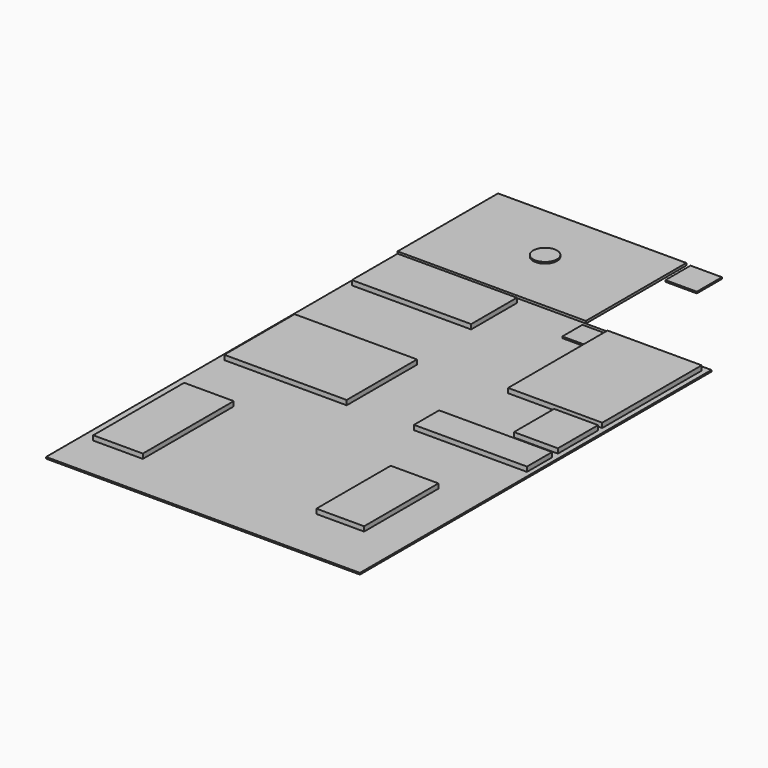
from build123d import *

# Parameters (mm, degrees)
F0_W       = 5000
F0_H       = 7000
F0_W_2     = 790
F0_H_2     = 1810
F0_W_3     = 760
F0_H_3     = 1480
F0_W_4     = 1950
F0_H_4     = 1400
F0_W_5     = 1900
F0_H_5     = 910
F0_W_6     = 1800
F0_H_6     = 500
F0_W_7     = 700
F0_H_7     = 800
F1_DEPTH   = 25
F2_DEPTH   = 100
F3_DEPTH   = 100
F0_W_8     = 400
F0_H_8     = 400
F4_DEPTH   = 50
F5_DEPTH   = 100
F6_DEPTH   = 100
F7_DEPTH   = 100
F8_DEPTH   = 100
F9_DEPTH   = 100
F10_W      = 3000
F10_H      = 2000
F13_DEPTH  = 12.5
F11_W      = 500
F11_H      = 500
F14_DEPTH  = 25
F12_R      = 126.5540122986
F12_W      = 1253.9870738983
F12_H      = 1031.8846702576
F12_W_2    = 497.074842453
F12_H_2    = 817.5168037415
F13_FACE_W = 3000
F13_FACE_H = 2000
F15_DEPTH  = 25
F16_R      = 190.4091259928
F17_DEPTH  = 25


with BuildPart() as f1:
    # F0 (on Top) → F1 (new body)
    with BuildSketch(Plane.XY):
        with Locations((4537.1482372284, 269.8234380165)):
            Rectangle(F0_W, F0_H)
        with Locations((2615.7725048065, -1615.3859186172)):
            Rectangle(F0_W_2, F0_H_2, mode=Mode.SUBTRACT)
        with Locations((6003.7550878525, -1590.1765619835)):
            Rectangle(F0_W_3, F0_H_3, mode=Mode.SUBTRACT)
        with Locations((3114.0183746815, 891.3115263859)):
            Rectangle(F0_W_4, F0_H_4, mode=Mode.SUBTRACT)
        with Locations((3071.3378071785, 3209.5271874348)):
            Rectangle(F0_W_5, F0_H_5, mode=Mode.SUBTRACT)
        with Locations((6061.3521099091, 441.3115263859)):
            Rectangle(F0_W_6, F0_H_6, mode=Mode.SUBTRACT)
        with Locations((6604.7293186188, 1215.8045292774)):
            Rectangle(F0_W_7, F0_H_7, mode=Mode.SUBTRACT)
        Polygon((5054.1623592377, 3679.4947148243), (5454.1623592377, 3679.4947148243), (6954.1623592377, 3679.4947148243), (6954.1623592377, 1699.4947148243), (5454.1623592377, 1699.4947148243), (5454.1623592377, 3279.4947148243), (5054.1623592377, 3279.4947148243), align=None, mode=Mode.SUBTRACT)
    extrude(amount=F1_DEPTH)

    # F0 (on Top) → F2 (join)
    with BuildSketch(Plane.XY):
        with Locations((3071.3378071785, 3209.5271874348)):
            Rectangle(F0_W_5, F0_H_5)
    extrude(amount=F2_DEPTH)

    # F0 (on Top) → F3 (join)
    with BuildSketch(Plane.XY):
        with Locations((3114.0183746815, 891.3115263859)):
            Rectangle(F0_W_4, F0_H_4)
    extrude(amount=F3_DEPTH)

    # F0 (on Top) → F4 (join)
    with BuildSketch(Plane.XY):
        with Locations((5254.1623592377, 3479.4947148243)):
            Rectangle(F0_W_8, F0_H_8)
    extrude(amount=F4_DEPTH)

    # F0 (on Top) → F5 (join)
    with BuildSketch(Plane.XY):
        Polygon((6954.1623592377, 3679.4947148243), (5454.1623592377, 3679.4947148243), (5454.1623592377, 3279.4947148243), (5454.1623592377, 1699.4947148243), (6954.1623592377, 1699.4947148243), align=None)
    extrude(amount=F5_DEPTH)

    # F0 (on Top) → F6 (join)
    with BuildSketch(Plane.XY):
        with Locations((6604.7293186188, 1215.8045292774)):
            Rectangle(F0_W_7, F0_H_7)
    extrude(amount=F6_DEPTH)

    # F0 (on Top) → F7 (join)
    with BuildSketch(Plane.XY):
        with Locations((6061.3521099091, 441.3115263859)):
            Rectangle(F0_W_6, F0_H_6)
    extrude(amount=F7_DEPTH)

    # F0 (on Top) → F8 (join)
    with BuildSketch(Plane.XY):
        with Locations((6003.7550878525, -1590.1765619835)):
            Rectangle(F0_W_3, F0_H_3)
    extrude(amount=F8_DEPTH)

    # F0 (on Top) → F9 (join)
    with BuildSketch(Plane.XY):
        with Locations((2615.7725048065, -1615.3859186172)):
            Rectangle(F0_W_2, F0_H_2)
    extrude(amount=F9_DEPTH)


with BuildPart() as f13:
    # F10 (on face) → F13 (new body)
    with BuildSketch(Plane.XY.offset(25)):
        with Locations((3537.1482372284, 4769.8234380165)):
            Rectangle(F10_W, F10_H)
    extrude(amount=F13_DEPTH)

    # F12 (on face) + F13_face (on face) → F15 (join)
    with BuildSketch(Plane.XY.offset(25)):
        with Locations((3561.7125034332, 4791.14818573)):
            Circle(F12_R)
        with Locations((2664.2705202103, 5255.1743984222)):
            Rectangle(F12_W, F12_H)
        with Locations((2285.8144044876, 4188.7857913971)):
            Rectangle(F12_W_2, F12_H_2)
        Polygon((5035.0966453552, 5159.3179702759), (5035.0966453552, 5628.8223266602), (4785.4528427124, 5628.8223266602), (4785.4528427124, 5567.0471191406), (4785.4528427124, 5230.0539016724), (4785.4528427124, 5159.3179702759), align=None)
        with BuildLine():
            Line((4785.4528427124, 5230.0539016724), (4785.4528427124, 5567.0471191406))
            ThreePointArc((4785.4528427124, 5567.0471191406), (4531.6836768333, 5398.5505104065), (4785.4528427124, 5230.0539016724))
        make_face()
    with BuildSketch(Plane(origin=(3537.1482372284, 4769.8234380165, 37.5), x_dir=(1, 0, 0), z_dir=(0, 0, 1))):
        Rectangle(F13_FACE_W, F13_FACE_H)
    extrude(amount=F15_DEPTH)

    # F16 (on face) → F17 (join)
    with BuildSketch(Plane.XY.offset(62.5)):
        with Locations((3559.0243339539, 4804.9054145813)):
            Circle(F16_R)
    extrude(amount=F17_DEPTH)


with BuildPart() as f14:
    # F11 (on face) → F14 (new body)
    with BuildSketch(Plane.XY.offset(25)):
        with Locations((5357.7156066895, 5515.8891677856)):
            Rectangle(F11_W, F11_H)
    extrude(amount=F14_DEPTH)


solid = Compound([f1.part, f13.part, f14.part])
